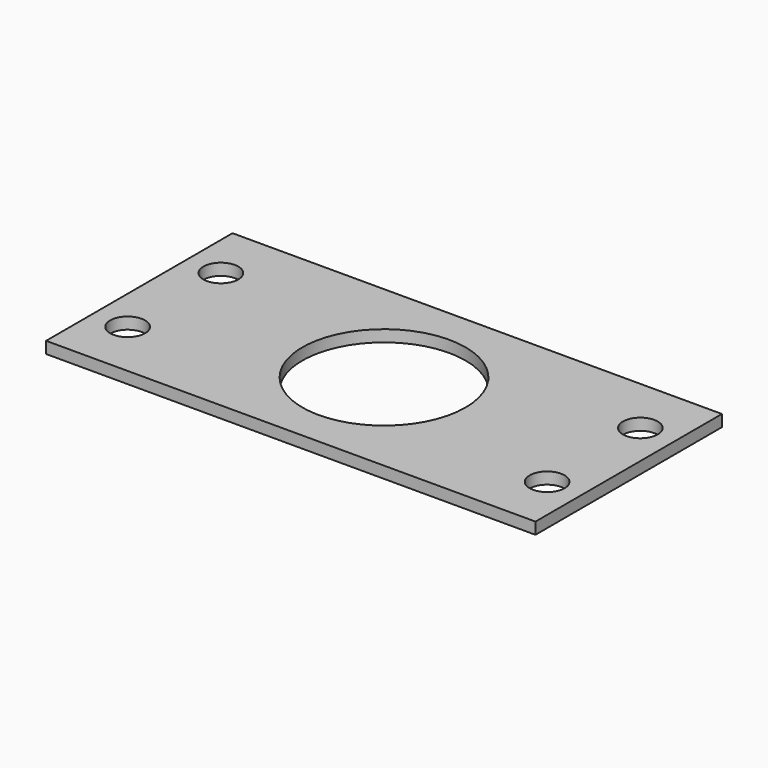
from build123d import *

# Parameters (mm, degrees)
CYLINDER1721_R     = 1.5
CYLINDER1721_DEPTH = 60
CYLINDER1719_R     = 1.5
CYLINDER1719_DEPTH = 60
CYLINDER1723_R     = 1.5
CYLINDER1723_DEPTH = 60
CYLINDER1722_R     = 1.5
CYLINDER1722_DEPTH = 60
CYLINDER1720_R     = 7
CYLINDER1720_DEPTH = 48
BOX667_W           = 42
BOX667_H           = 20
BOX667_DEPTH       = 1


with BuildPart() as obj1:
    # Cylinder1721 → Cylinder1721 (new body)
    with BuildSketch(Plane(origin=(18, 85, -57), x_dir=(1, 0, 0), z_dir=(0, 0, 1))):
        Circle(CYLINDER1721_R)
    extrude(amount=CYLINDER1721_DEPTH)


with BuildPart() as obj2:
    # Cylinder1719 → Cylinder1719 (new body)
    with BuildSketch(Plane(origin=(-18, 85, -57), x_dir=(1, 0, 0), z_dir=(0, 0, 1))):
        Circle(CYLINDER1719_R)
    extrude(amount=CYLINDER1719_DEPTH)


with BuildPart() as obj3:
    # Cylinder1723 → Cylinder1723 (new body)
    with BuildSketch(Plane(origin=(-18, 95, -57), x_dir=(1, 0, 0), z_dir=(0, 0, 1))):
        Circle(CYLINDER1723_R)
    extrude(amount=CYLINDER1723_DEPTH)


with BuildPart() as compound852:
    # Cylinder1722 → Cylinder1722 (new body)
    with BuildSketch(Plane(origin=(18, 95, -57), x_dir=(1, 0, 0), z_dir=(0, 0, 1))):
        Circle(CYLINDER1722_R)
    extrude(amount=CYLINDER1722_DEPTH)

    # Compound852: union obj1, obj2, obj3
    add(obj1.part)
    add(obj2.part)
    add(obj3.part)


with BuildPart() as obj4:
    # Cylinder1720 → Cylinder1720 (new body)
    with BuildSketch(Plane(origin=(0, 90, -55), x_dir=(1, 0, 0), z_dir=(0, 0, 1))):
        Circle(CYLINDER1720_R)
    extrude(amount=CYLINDER1720_DEPTH)


with BuildPart() as j_midi_encoder_washer:
    # Box667 → Box667 (new body)
    with BuildSketch(Plane(origin=(-21, 80, -39), x_dir=(1, 0, 0), z_dir=(0, 0, 1))):
        with Locations((21, 10)):
            Rectangle(BOX667_W, BOX667_H)
    extrude(amount=BOX667_DEPTH)

    # Cut356: cut obj4
    add(obj4.part, mode=Mode.SUBTRACT)

    # Cut357: cut Compound852
    add(compound852.part, mode=Mode.SUBTRACT)


with BuildPart() as j_midi_encoder_washer_1:
    # Cut357 placement: moved
    add(j_midi_encoder_washer.part.moved(Location((0, 0, 60))))


solid = j_midi_encoder_washer_1.part
